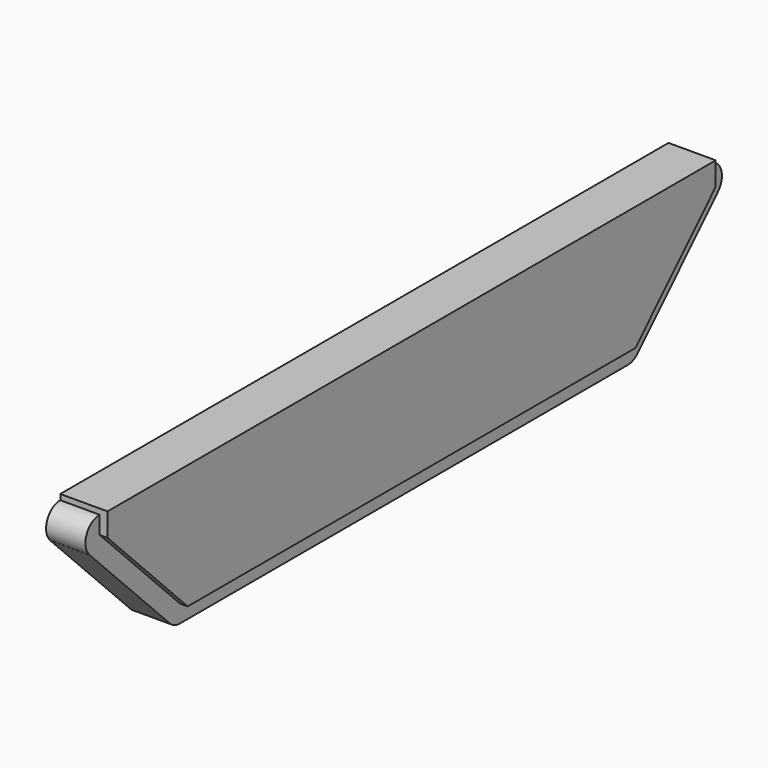
from build123d import *

# Parameters (mm, degrees)
F1_DEPTH = 3.048
F2_DEPTH = 2.54


with BuildPart() as f1:
    # F0 (on Right) → F1 (new body)
    with BuildSketch(Plane.YZ):
        Polygon((-18.0594, 0), (0, 0), (18.0594, 0), (24.5364, 6.528312), (24.5364, 7.662673), (24.5364, 8.028628), (0, 8.028628), (-24.529436, 8.028628), (-24.529436, 7.674181), (-24.529436, 6.528312), align=None)
    extrude(amount=F1_DEPTH)

    # F0 (on Right) → F2 (join)
    with BuildSketch(Plane.YZ):
        with BuildLine():
            Line((-25.343312, 5.721702), (-24.529436, 6.528312))
            Line((-24.529436, 6.528312), (-24.529436, 7.674181))
            ThreePointArc((-24.529436, 7.674181), (-25.587095, 6.969189), (-25.343312, 5.721702))
        make_face()
        Polygon((-18.868554, -0.801931), (-18.0594, 0), (-24.529436, 6.528312), (-25.343312, 5.721702), (-25.345557, 5.719477), align=None)
        with BuildLine():
            Line((18.0594, 0), (0, 0))
            Line((0, 0), (-18.0594, 0))
            Line((-18.0594, 0), (-18.868554, -0.801931))
            ThreePointArc((-18.868554, -0.801931), (-18.497719, -1.051523), (-18.0594, -1.139221))
            Line((-18.0594, -1.139221), (18.0594, -1.138603))
            ThreePointArc((18.0594, -1.138603), (18.497199, -1.051071), (18.867684, -0.801931))
            Line((18.867684, -0.801931), (18.0594, 0))
        make_face()
        Polygon((24.5364, 6.528312), (18.0594, 0), (18.867684, -0.801931), (25.344834, 5.726233), (25.341672, 5.729369), align=None)
        with BuildLine():
            Line((24.5364, 7.662673), (24.5364, 6.528312))
            Line((24.5364, 6.528312), (25.341672, 5.729369))
            ThreePointArc((25.341672, 5.729369), (25.583554, 6.96448), (24.5364, 7.662673))
        make_face()
    extrude(amount=F2_DEPTH)


solid = f1.part
